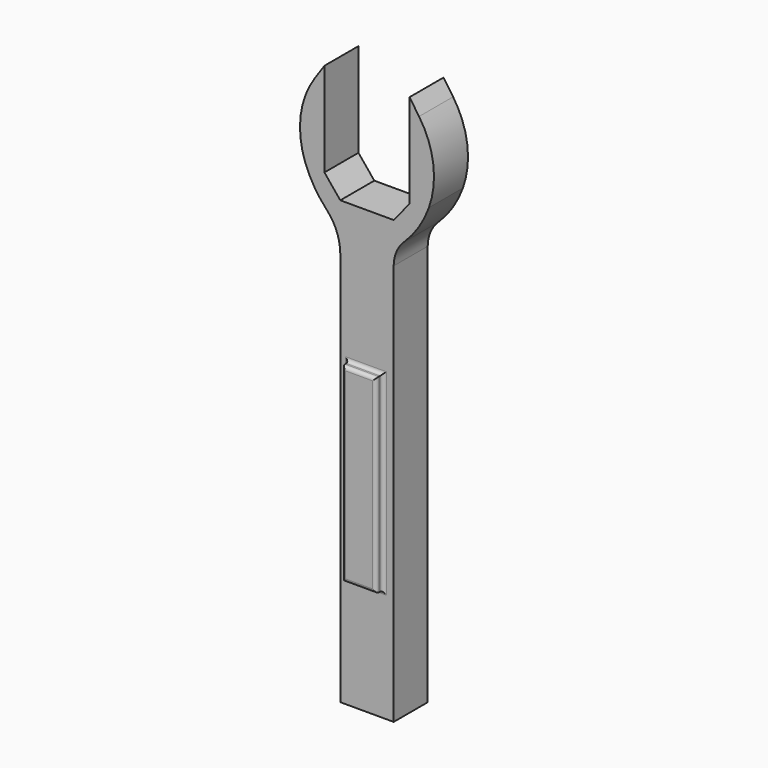
from build123d import *

# Parameters (mm, degrees)
F0_W          = 7.9684891073
F0_H          = 62.2722776352
F1_DEPTH      = 6.35
F2_R          = 7.62
F3_R          = 12.7
F4_W          = 5.0514815375
F4_H          = 28.3501516096
F5_DEPTH      = 7.62
F5_DEPTH_BACK = 1.27
F6_R          = 0.508
F7_R          = 0.508
F8_R          = 0.508
F9_R          = 5.08


with BuildPart() as f1:
    # F0 (on Front) → F1 (new body)
    with BuildSketch(Plane.XZ):
        with Locations((-13.4939518757, 12.9458873377)):
            Rectangle(F0_W, F0_H)
        with BuildLine():
            ThreePointArc((-23.2001595007, 59.7813798143), (-22.7239205368, 51.0625328759), (-17.4781964294, 44.0820261553))
            Line((-17.4781964294, 44.0820261553), (-9.5097073221, 44.0820261553))
            ThreePointArc((-9.5097073221, 44.0820261553), (-4.2639832147, 51.0625328759), (-3.7877442507, 59.7813798143))
            Line((-3.7877442507, 59.7813798143), (-7.1439518757, 59.7813798143))
            Line((-7.1439518757, 59.7813798143), (-7.1439518757, 50.6561658404))
            Line((-7.1439518757, 50.6561658404), (-9.5097073221, 47.7606636927))
            Line((-9.5097073221, 47.7606636927), (-17.4781964294, 47.7606636927))
            Line((-17.4781964294, 47.7606636927), (-19.8439518757, 50.6561658404))
            Line((-19.8439518757, 50.6561658404), (-19.8439518757, 59.7813798143))
            Line((-19.8439518757, 59.7813798143), (-23.2001595007, 59.7813798143))
        make_face()
        Polygon((-19.8439518757, 64.6756440401), (-23.2001595007, 59.7813798143), (-19.8439518757, 59.7813798143), align=None)
        Polygon((-7.1439518757, 59.7813798143), (-3.7877442507, 59.7813798143), (-7.1439518757, 64.6756440401), align=None)
    extrude(amount=F1_DEPTH)

    # F2
    f2_edges = [f1.edges().sort_by_distance(p)[0] for p in [
        (-17.478196, -3.175, 44.082026),
    ]]
    fillet(f2_edges, radius=F2_R)

    # F3
    f3_edges = [f1.edges().sort_by_distance(p)[0] for p in [
        (-3.787744, -3.175, 59.78138),
        (-23.20016, -3.175, 59.78138),
    ]]
    fillet(f3_edges, radius=F3_R)

    # F4 (on face) → F5 (join, two sides)
    with BuildSketch(Plane(origin=(0, 0, 0), x_dir=(-1, 0, 0), z_dir=(0, 1, 0))) as f5_sk:
        with Locations((13.6485905387, 12.7843844239)):
            Rectangle(F4_W, F4_H)
    extrude(amount=-F5_DEPTH)
    extrude(f5_sk.sketch, amount=F5_DEPTH_BACK)

    # F6
    f6_edges = [f1.edges().sort_by_distance(p)[0] for p in [
        (-11.12285, 0, 12.784384),
        (-13.648591, 0, -1.390691),
        (-13.648591, 0, 26.95946),
        (-16.174331, 0, 12.784384),
    ]]
    fillet(f6_edges, radius=F6_R)

    # F7
    f7_edges = [f1.edges().sort_by_distance(p)[0] for p in [
        (-11.12285, 1.27, 12.784384),
        (-13.648591, 1.27, -1.390691),
        (-16.174331, 1.27, 12.784384),
        (-13.648591, 1.27, 26.95946),
    ]]
    fillet(f7_edges, radius=F7_R)

    # F8
    f8_edges = [f1.edges().sort_by_distance(p)[0] for p in [
        (-13.648591, -6.35, -1.390691),
        (-11.12285, -6.35, 12.784384),
        (-13.648591, -6.35, 26.95946),
        (-16.174331, -6.35, 12.784384),
        (-11.12285, -7.62, 12.784384),
        (-13.648591, -7.62, -1.390691),
        (-16.174331, -7.62, 12.784384),
        (-13.648591, -7.62, 26.95946),
    ]]
    fillet(f8_edges, radius=F8_R)

    # F9
    f9_edges = [f1.edges().sort_by_distance(p)[0] for p in [
        (-9.509707, -3.175, 44.082026),
    ]]
    fillet(f9_edges, radius=F9_R)


solid = f1.part
